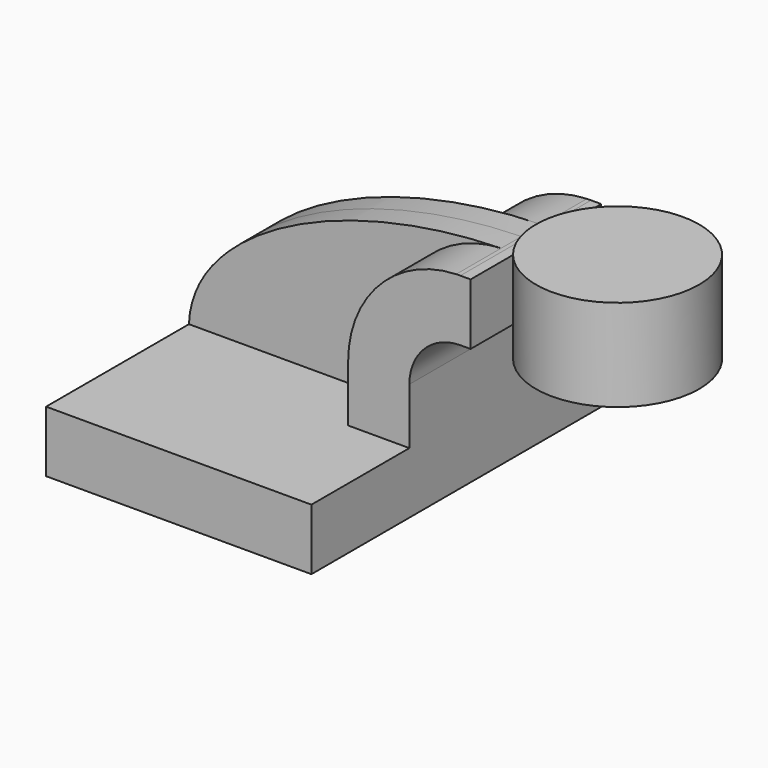
from build123d import *

# Parameters (mm, degrees)
F1_DEPTH = 63.5
F2_DEPTH = 25.4
F3_DEPTH = 7.9375
F0_W     = 25.4
F0_H     = 28.575


with BuildPart() as f1:
    # F0 (on Front) → F1 (new body, symmetric)
    with BuildSketch(Plane.XZ):
        Polygon((-41.275, 9.525), (-41.275, -9.525), (41.275, -9.525), (41.275, 9.525), (22.225, 9.525), align=None)
    extrude(amount=F1_DEPTH, both=True)

    # F0 (on Front) → F2 (join, symmetric)
    with BuildSketch(Plane.XZ):
        with BuildLine():
            Line((22.225, 9.525), (41.275, 9.525))
            Line((41.275, 9.525), (41.275, 27.0002))
            ThreePointArc((41.275, 27.0002), (45.92468, 38.22552), (57.15, 42.8752))
            Line((57.15, 42.8752), (60.325, 42.8752))
            Line((60.325, 42.8752), (60.325, 61.9252))
            Line((60.325, 61.9252), (57.15, 61.9252))
            add(Edge.make_bspline(
                [(55.844966, 61.900809), (56.279499, 61.910538), (56.714518, 61.918672), (57.15, 61.9252)],
                knots=[110.571906, 110.571906, 110.571906, 110.571906, 111.504536, 111.504536, 111.504536, 111.504536], degree=3))
            ThreePointArc((55.844966, 61.900809), (31.997128, 51.230112), (22.225, 27.0002))
            Line((22.225, 27.0002), (22.225, 9.525))
        make_face()
    extrude(amount=F2_DEPTH, both=True)

    # F0 (on Front) → F3 (join, symmetric)
    with BuildSketch(Plane.XZ):
        with BuildLine():
            add(Edge.make_bspline(
                [(-41.275, 9.525), (-40.368903, 37.179671), (4.326996, 60.747394), (55.844966, 61.900809)],
                knots=[0, 0, 0, 0, 110.571906, 110.571906, 110.571906, 110.571906], degree=3))
            Line((-41.275, 9.525), (22.225, 9.525))
            Line((22.225, 9.525), (22.225, 27.0002))
            ThreePointArc((22.225, 27.0002), (31.997128, 51.230112), (55.844966, 61.900809))
        make_face()
    extrude(amount=F3_DEPTH, both=True)

    # F0 (on Front) → F4 (revolve)
    with BuildSketch(Plane.XZ):
        with Locations((98.425, 52.3875)):
            Rectangle(F0_W, F0_H)
    revolve(axis=Axis((85.725, 0, 52.3875), (0, 0, -1)))


solid = f1.part
